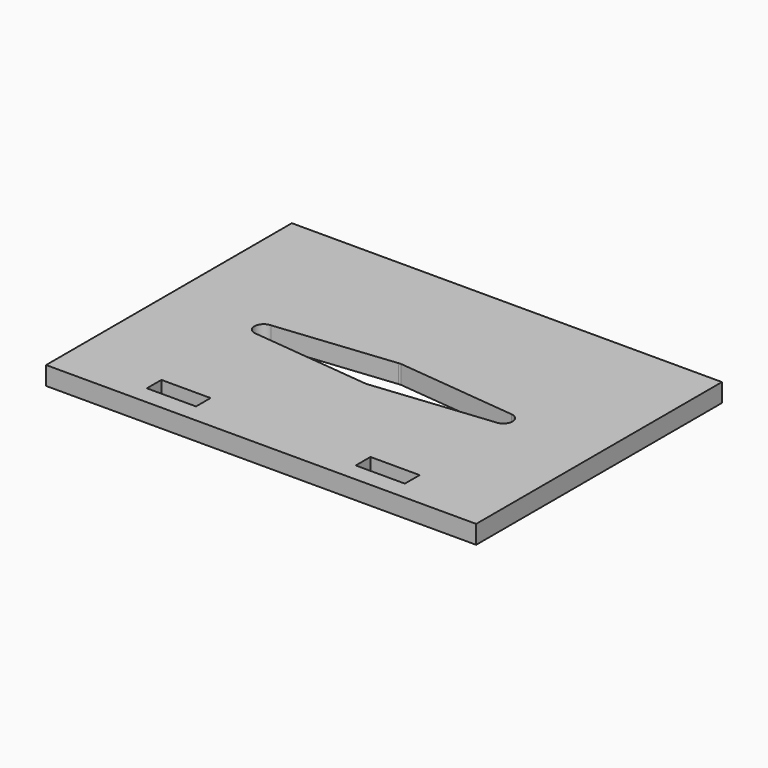
from build123d import *

# Parameters (mm, degrees)
F0_W     = 70
F0_H     = 50
F0_W_2   = 8
F0_H_2   = 2.962767
F0_H_3   = 3
F1_DEPTH = 3


with BuildPart() as f1:
    # F0 (on Top) → F1 (new body)
    with BuildSketch(Plane.XY):
        with Locations((0, 0.110523)):
            Rectangle(F0_W, F0_H)
        with Locations((-17, -20.408093)):
            Rectangle(F0_W_2, F0_H_2, mode=Mode.SUBTRACT)
        with Locations((17, -20.389477)):
            Rectangle(F0_W_2, F0_H_3, mode=Mode.SUBTRACT)
        with BuildLine():
            ThreePointArc((-19.451462, -1.499214), (-20.999804, -0.024272), (-19.5, 1.5))
            Line((-19.5, 1.5), (-0.362987, 3.490252))
            Line((-0.362987, 3.490252), (0, 3.528003))
            Line((0, 3.528003), (19.654556, 1.492016))
            ThreePointArc((19.654556, 1.492016), (20.613964, 1.004531), (21, 0))
            ThreePointArc((21, 0), (20.543358, -1.077684), (19.451462, -1.499214))
            Line((19.451462, -1.499214), (0.364042, -3.490142))
            Line((0.364042, -3.490142), (0, -3.528114))
            Line((0, -3.528114), (-0.364042, -3.490142))
            Line((-0.364042, -3.490142), (-19.451462, -1.499214))
        make_face(mode=Mode.SUBTRACT)
    extrude(amount=F1_DEPTH)


solid = f1.part
